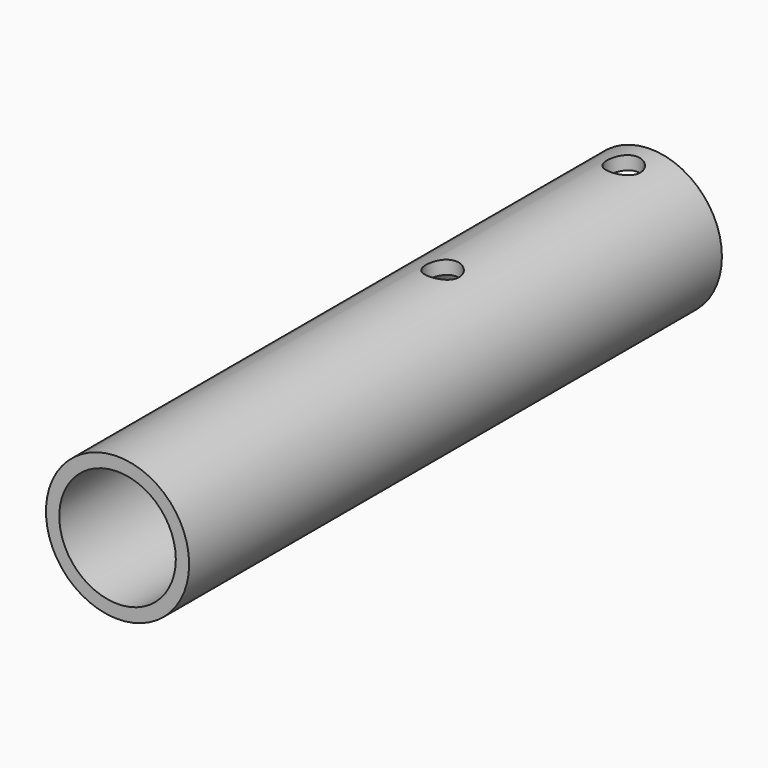
from build123d import *

# Parameters (mm, degrees)
F0_R     = 10.75
F0_R_2   = 8.75
F1_DEPTH = 100
F2_R     = 2.5
F3_DEPTH = 25


with BuildPart() as f1:
    # F0 (on Front) → F1 (new body)
    with BuildSketch(Plane.XZ):
        Circle(F0_R)
        Circle(F0_R_2, mode=Mode.SUBTRACT)
    extrude(amount=F1_DEPTH)

    # F2 (on Top) → F3 (cut, symmetric)
    with BuildSketch(Plane.XY):
        with Locations((0, -5)):
            Circle(F2_R)
        with Locations((0, -39)):
            Circle(F2_R)
    extrude(amount=F3_DEPTH, both=True, mode=Mode.SUBTRACT)


solid = f1.part
